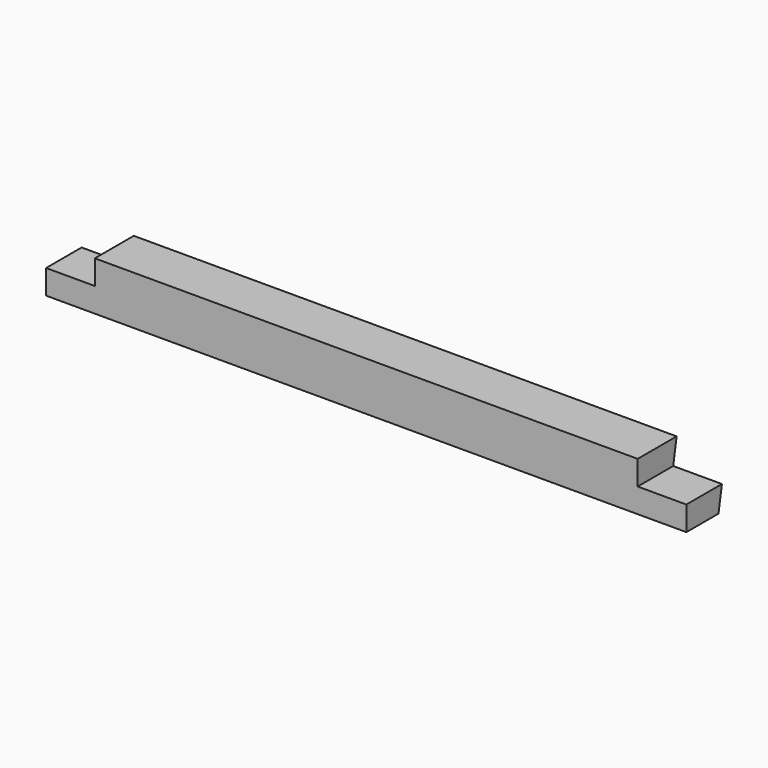
from build123d import *

# Parameters (mm, degrees)
F0_W     = 88.9
F0_H     = 88.9
F1_DEPTH = 673.1
F2_W     = 88.9
F2_H     = 44.45
F3_DEPTH = 88.901
F5_DEPTH = 1346.201
F6_W     = 88.9
F6_H     = 88.9
F7_DEPTH = 88.901


with BuildPart() as f1:
    # F0 (on Right) → F1 (new body, symmetric)
    with BuildSketch(Plane.YZ):
        Rectangle(F0_W, F0_H)
    extrude(amount=F1_DEPTH, both=True)

    # F2 (on face) → F3 (cut, through all)
    with BuildSketch(Plane.XZ.offset(44.45)):
        with Locations((-539.75, 22.225)):
            Rectangle(F2_W, F2_H)
        with Locations((539.75, 22.225)):
            Rectangle(F2_W, F2_H)
    extrude(amount=-F3_DEPTH, mode=Mode.SUBTRACT)

    # F4 (on face) → F5 (cut, through all)
    with BuildSketch(Plane.YZ.offset(673.1)):
        Polygon((44.45, -44.45), (44.45, 44.45), (28.774531, -44.45), align=None)
    extrude(amount=-F5_DEPTH, mode=Mode.SUBTRACT)

    # F6 (on face) → F7 (cut, through all)
    with BuildSketch(Plane.XZ.offset(44.45)):
        with Locations((-628.65, 0)):
            Rectangle(F6_W, F6_H)
        with Locations((628.65, 0)):
            Rectangle(F6_W, F6_H)
    extrude(amount=-F7_DEPTH, mode=Mode.SUBTRACT)


solid = f1.part
